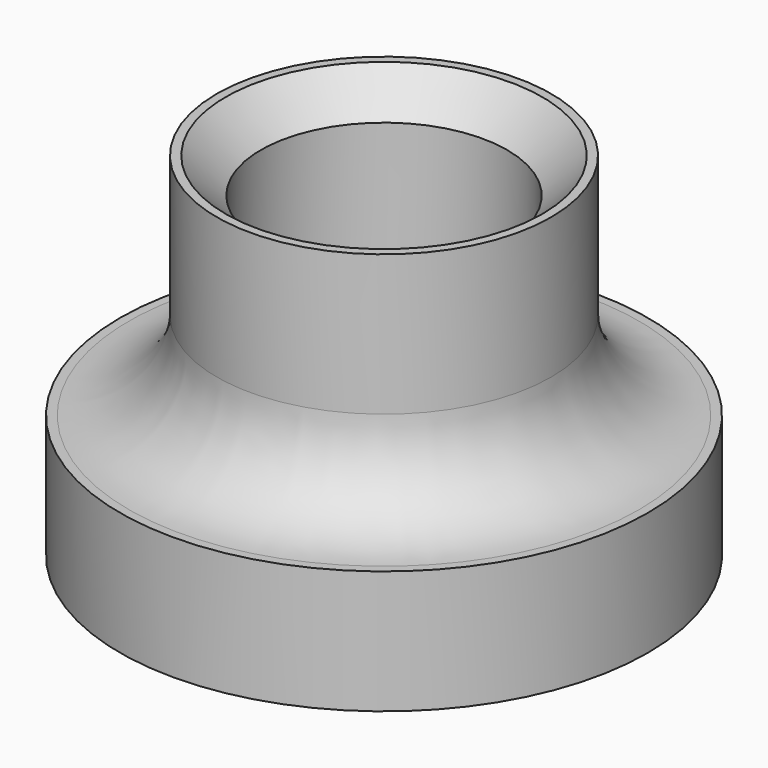
from build123d import *

# Parameters (mm, degrees)
F0_R     = 15
F0_R_2   = 9.5
F0_R_3   = 7
F1_DEPTH = 7
F2_DEPTH = 20
F3_R     = 5
F4_SIZE  = 2
F5_SIZE  = 2


with BuildPart() as f1:
    # F0 (on Top) → F1 (new body)
    with BuildSketch(Plane.XY):
        Circle(F0_R)
        Circle(F0_R_2, mode=Mode.SUBTRACT)
        Circle(F0_R_2)
        Circle(F0_R_3, mode=Mode.SUBTRACT)
        Circle(F0_R_3)
    extrude(amount=F1_DEPTH)

    # F0 (on Top) → F2 (join)
    with BuildSketch(Plane.XY):
        Circle(F0_R_2)
        Circle(F0_R_3, mode=Mode.SUBTRACT)
    extrude(amount=F2_DEPTH)

    # F3
    f3_edges = [f1.edges().sort_by_distance(p)[0] for p in [
        (-9.5, 0, 7),
    ]]
    fillet(f3_edges, radius=F3_R)

    # F4
    f4_edges = [f1.edges().sort_by_distance(p)[0] for p in [
        (-7, 0, 20),
    ]]
    chamfer(f4_edges, length=F4_SIZE)

    # F5
    f5_edges = [f1.edges().sort_by_distance(p)[0] for p in [
        (-7, 0, 7),
    ]]
    chamfer(f5_edges, length=F5_SIZE)


solid = f1.part
